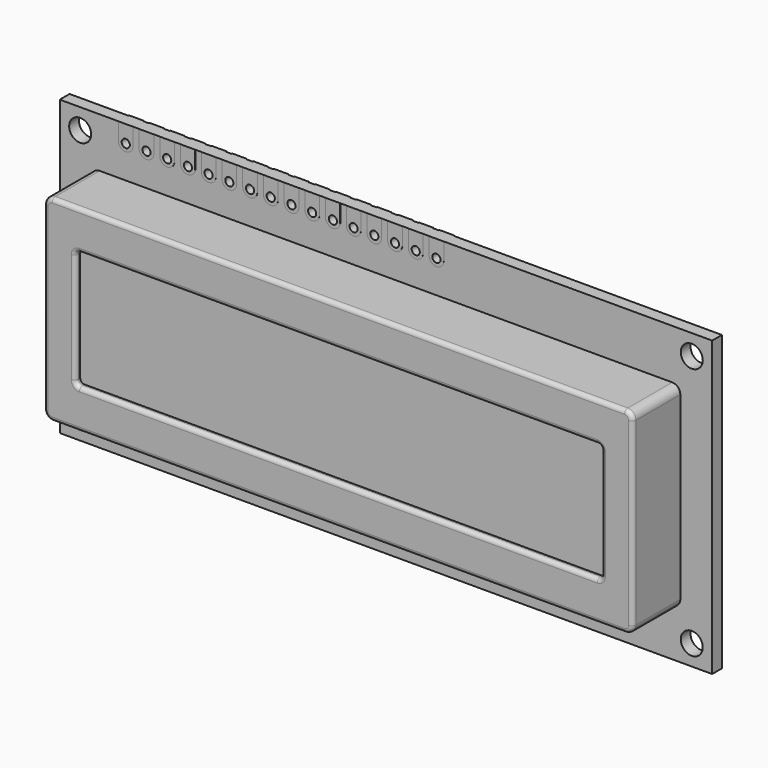
from build123d import *

# Parameters (mm, degrees)
F0_R     = 1.35
F0_R_2   = 0.5
F1_DEPTH = 1.5
F3_DEPTH = 7.3
F5_DEPTH = 0.75
F6_R     = 0.5
F7_DEPTH = 1.51
F8_DEPTH = 0.1


with BuildPart() as f1:
    # F0 (on Front) → F1 (new body)
    with BuildSketch(Plane.XZ):
        with BuildLine():
            Line((7.2, 0), (0, 0))
            Line((0, 0), (0, -36))
            Line((0, -36), (80, -36))
            Line((80, -36), (80, 0))
            Line((80, 0), (47.1, 0))
            Line((47.1, 0), (47.1, -2.1))
            ThreePointArc((47.1, -2.1), (46.2, -3), (45.3, -2.1))
            Line((45.3, -2.1), (45.3, 0))
            Line((45.3, 0), (44.56, 0))
            Line((44.56, 0), (44.56, -2.1))
            ThreePointArc((44.56, -2.1), (43.66, -3), (42.76, -2.1))
            Line((42.76, -2.1), (42.76, 0))
            Line((42.76, 0), (42.02, 0))
            Line((42.02, 0), (42.02, -2.1))
            ThreePointArc((42.02, -2.1), (41.12, -3), (40.22, -2.1))
            Line((40.22, -2.1), (40.22, 0))
            Line((40.22, 0), (39.48, 0))
            Line((39.48, 0), (39.48, -2.1))
            ThreePointArc((39.48, -2.1), (38.58, -3), (37.68, -2.1))
            Line((37.68, -2.1), (37.68, 0))
            Line((37.68, 0), (36.94, 0))
            Line((36.94, 0), (36.94, -2.1))
            ThreePointArc((36.94, -2.1), (36.04, -3), (35.14, -2.1))
            Line((35.14, -2.1), (35.14, 0))
            Line((35.14, 0), (34.4, 0))
            Line((34.4, 0), (34.4, -2.1))
            ThreePointArc((34.4, -2.1), (33.5, -3), (32.6, -2.1))
            Line((32.6, -2.1), (32.6, 0))
            Line((32.6, 0), (31.86, 0))
            Line((31.86, 0), (31.86, -2.1))
            ThreePointArc((31.86, -2.1), (30.96, -3), (30.06, -2.1))
            Line((30.06, -2.1), (30.06, 0))
            Line((30.06, 0), (29.32, 0))
            Line((29.32, 0), (29.32, -2.1))
            ThreePointArc((29.32, -2.1), (28.42, -3), (27.52, -2.1))
            Line((27.52, -2.1), (27.52, 0))
            Line((27.52, 0), (26.78, 0))
            Line((26.78, 0), (26.78, -2.1))
            ThreePointArc((26.78, -2.1), (25.88, -3), (24.98, -2.1))
            Line((24.98, -2.1), (24.98, 0))
            Line((24.98, 0), (24.24, 0))
            Line((24.24, 0), (24.24, -2.1))
            ThreePointArc((24.24, -2.1), (23.34, -3), (22.44, -2.1))
            Line((22.44, -2.1), (22.44, 0))
            Line((22.44, 0), (21.7, 0))
            Line((21.7, 0), (21.7, -2.1))
            ThreePointArc((21.7, -2.1), (20.8, -3), (19.9, -2.1))
            Line((19.9, -2.1), (19.9, 0))
            Line((19.9, 0), (19.16, 0))
            Line((19.16, 0), (19.16, -2.1))
            ThreePointArc((19.16, -2.1), (18.26, -3), (17.36, -2.1))
            Line((17.36, -2.1), (17.36, 0))
            Line((17.36, 0), (16.62, 0))
            Line((16.62, 0), (16.62, -2.1))
            ThreePointArc((16.62, -2.1), (15.72, -3), (14.82, -2.1))
            Line((14.82, -2.1), (14.82, 0))
            Line((14.82, 0), (14.08, 0))
            Line((14.08, 0), (14.08, -2.1))
            ThreePointArc((14.08, -2.1), (13.18, -3), (12.28, -2.1))
            Line((12.28, -2.1), (12.28, 0))
            Line((12.28, 0), (11.54, 0))
            Line((11.54, 0), (11.54, -2.1))
            ThreePointArc((11.54, -2.1), (10.64, -3), (9.74, -2.1))
            Line((9.74, -2.1), (9.74, 0))
            Line((9.74, 0), (9, 0))
            Line((9, 0), (9, -2.1))
            ThreePointArc((9, -2.1), (8.1, -3), (7.2, -2.1))
            Line((7.2, -2.1), (7.2, 0))
        make_face()
        with Locations((2.5, -33.5)):
            Circle(F0_R, mode=Mode.SUBTRACT)
        with Locations((77.5, -33.5)):
            Circle(F0_R, mode=Mode.SUBTRACT)
        with Locations((2.5, -2.5)):
            Circle(F0_R, mode=Mode.SUBTRACT)
        with Locations((77.5, -2.5)):
            Circle(F0_R, mode=Mode.SUBTRACT)
        with BuildLine():
            Line((9, 0), (7.2, 0))
            Line((7.2, 0), (7.2, -2.1))
            ThreePointArc((7.2, -2.1), (8.1, -3), (9, -2.1))
            Line((9, -2.1), (9, 0))
        make_face()
        with Locations((8.1, -2.1)):
            Circle(F0_R_2, mode=Mode.SUBTRACT)
        with BuildLine():
            Line((11.54, 0), (9.74, 0))
            Line((9.74, 0), (9.74, -2.1))
            ThreePointArc((9.74, -2.1), (10.64, -3), (11.54, -2.1))
            Line((11.54, -2.1), (11.54, 0))
        make_face()
        with Locations((10.64, -2.1)):
            Circle(F0_R_2, mode=Mode.SUBTRACT)
        with BuildLine():
            Line((47.1, -2.1), (47.1, 0))
            Line((47.1, 0), (45.3, 0))
            Line((45.3, 0), (45.3, -2.1))
            ThreePointArc((45.3, -2.1), (46.2, -3), (47.1, -2.1))
        make_face()
        with Locations((46.2, -2.1)):
            Circle(F0_R_2, mode=Mode.SUBTRACT)
        with BuildLine():
            Line((14.08, 0), (12.28, 0))
            Line((12.28, 0), (12.28, -2.1))
            ThreePointArc((12.28, -2.1), (13.18, -3), (14.08, -2.1))
            Line((14.08, -2.1), (14.08, 0))
        make_face()
        with Locations((13.18, -2.1)):
            Circle(F0_R_2, mode=Mode.SUBTRACT)
        with BuildLine():
            Line((44.56, -2.1), (44.56, 0))
            Line((44.56, 0), (42.76, 0))
            Line((42.76, 0), (42.76, -2.1))
            ThreePointArc((42.76, -2.1), (43.66, -3), (44.56, -2.1))
        make_face()
        with Locations((43.66, -2.1)):
            Circle(F0_R_2, mode=Mode.SUBTRACT)
        with BuildLine():
            Line((16.62, 0), (14.82, 0))
            Line((14.82, 0), (14.82, -2.1))
            ThreePointArc((14.82, -2.1), (15.72, -3), (16.62, -2.1))
            Line((16.62, -2.1), (16.62, 0))
        make_face()
        with Locations((15.72, -2.1)):
            Circle(F0_R_2, mode=Mode.SUBTRACT)
        with BuildLine():
            Line((42.02, -2.1), (42.02, 0))
            Line((42.02, 0), (40.22, 0))
            Line((40.22, 0), (40.22, -2.1))
            ThreePointArc((40.22, -2.1), (41.12, -3), (42.02, -2.1))
        make_face()
        with Locations((41.12, -2.1)):
            Circle(F0_R_2, mode=Mode.SUBTRACT)
        with BuildLine():
            Line((19.16, 0), (17.36, 0))
            Line((17.36, 0), (17.36, -2.1))
            ThreePointArc((17.36, -2.1), (18.26, -3), (19.16, -2.1))
            Line((19.16, -2.1), (19.16, 0))
        make_face()
        with Locations((18.26, -2.1)):
            Circle(F0_R_2, mode=Mode.SUBTRACT)
        with BuildLine():
            Line((39.48, -2.1), (39.48, 0))
            Line((39.48, 0), (37.68, 0))
            Line((37.68, 0), (37.68, -2.1))
            ThreePointArc((37.68, -2.1), (38.58, -3), (39.48, -2.1))
        make_face()
        with Locations((38.58, -2.1)):
            Circle(F0_R_2, mode=Mode.SUBTRACT)
        with BuildLine():
            Line((21.7, 0), (19.9, 0))
            Line((19.9, 0), (19.9, -2.1))
            ThreePointArc((19.9, -2.1), (20.8, -3), (21.7, -2.1))
            Line((21.7, -2.1), (21.7, 0))
        make_face()
        with Locations((20.8, -2.1)):
            Circle(F0_R_2, mode=Mode.SUBTRACT)
        with BuildLine():
            Line((36.94, -2.1), (36.94, 0))
            Line((36.94, 0), (35.14, 0))
            Line((35.14, 0), (35.14, -2.1))
            ThreePointArc((35.14, -2.1), (36.04, -3), (36.94, -2.1))
        make_face()
        with Locations((36.04, -2.1)):
            Circle(F0_R_2, mode=Mode.SUBTRACT)
        with BuildLine():
            Line((24.24, 0), (22.44, 0))
            Line((22.44, 0), (22.44, -2.1))
            ThreePointArc((22.44, -2.1), (23.34, -3), (24.24, -2.1))
            Line((24.24, -2.1), (24.24, 0))
        make_face()
        with Locations((23.34, -2.1)):
            Circle(F0_R_2, mode=Mode.SUBTRACT)
        with BuildLine():
            Line((34.4, -2.1), (34.4, 0))
            Line((34.4, 0), (32.6, 0))
            Line((32.6, 0), (32.6, -2.1))
            ThreePointArc((32.6, -2.1), (33.5, -3), (34.4, -2.1))
        make_face()
        with Locations((33.5, -2.1)):
            Circle(F0_R_2, mode=Mode.SUBTRACT)
        with BuildLine():
            Line((26.78, 0), (24.98, 0))
            Line((24.98, 0), (24.98, -2.1))
            ThreePointArc((24.98, -2.1), (25.88, -3), (26.78, -2.1))
            Line((26.78, -2.1), (26.78, 0))
        make_face()
        with Locations((25.88, -2.1)):
            Circle(F0_R_2, mode=Mode.SUBTRACT)
        with BuildLine():
            Line((31.86, -2.1), (31.86, 0))
            Line((31.86, 0), (30.06, 0))
            Line((30.06, 0), (30.06, -2.1))
            ThreePointArc((30.06, -2.1), (30.96, -3), (31.86, -2.1))
        make_face()
        with Locations((30.96, -2.1)):
            Circle(F0_R_2, mode=Mode.SUBTRACT)
        with BuildLine():
            Line((29.32, 0), (27.52, 0))
            Line((27.52, 0), (27.52, -2.1))
            ThreePointArc((27.52, -2.1), (28.42, -3), (29.32, -2.1))
            Line((29.32, -2.1), (29.32, 0))
        make_face()
        with Locations((28.42, -2.1)):
            Circle(F0_R_2, mode=Mode.SUBTRACT)
    extrude(amount=F1_DEPTH)

    # F2 (on face) → F3 (join)
    with BuildSketch(Plane.XZ.offset(1.5)):
        with BuildLine():
            Line((75.1, -6.1), (4.9, -6.1))
            ThreePointArc((4.9, -6.1), (4.1928932188, -6.3928932188), (3.9, -7.1))
            Line((3.9, -7.1), (3.9, -29.2))
            ThreePointArc((3.9, -29.2), (4.1928932188, -29.9071067812), (4.9, -30.2))
            Line((4.9, -30.2), (75.1, -30.2))
            ThreePointArc((75.1, -30.2), (75.8071067812, -29.9071067812), (76.1, -29.2))
            Line((76.1, -29.2), (76.1, -7.1))
            ThreePointArc((76.1, -7.1), (75.8071067812, -6.3928932188), (75.1, -6.1))
        make_face()
    extrude(amount=F3_DEPTH)

    # F4 (on face) → F5 (cut)
    with BuildSketch(Plane.XZ.offset(8.8)):
        with BuildLine():
            Line((71.75, -10.9), (8.25, -10.9))
            ThreePointArc((8.25, -10.9), (7.8964466094, -11.0464466094), (7.75, -11.4))
            Line((7.75, -11.4), (7.75, -24.9))
            ThreePointArc((7.75, -24.9), (7.8964466094, -25.2535533906), (8.25, -25.4))
            Line((8.25, -25.4), (71.75, -25.4))
            ThreePointArc((71.75, -25.4), (72.1035533906, -25.2535533906), (72.25, -24.9))
            Line((72.25, -24.9), (72.25, -11.4))
            ThreePointArc((72.25, -11.4), (72.1035533906, -11.0464466094), (71.75, -10.9))
        make_face()
    extrude(amount=-F5_DEPTH, mode=Mode.SUBTRACT)

    # F6
    f6_edges = [f1.edges().sort_by_distance(p)[0] for p in [
        (76.1, -8.8, -18.15),
        (75.807107, -8.8, -29.907107),
        (75.807107, -8.8, -6.392893),
        (40, -8.8, -30.2),
        (40, -8.8, -6.1),
        (4.192893, -8.8, -29.907107),
        (4.192893, -8.8, -6.392893),
        (3.9, -8.8, -18.15),
        (40, -8.8, -10.9),
        (7.896447, -8.8, -11.046447),
        (7.75, -8.8, -18.15),
        (7.896447, -8.8, -25.253553),
        (40, -8.8, -25.4),
        (72.103553, -8.8, -25.253553),
        (72.25, -8.8, -18.15),
        (72.103553, -8.8, -11.046447),
    ]]
    fillet(f6_edges, radius=F6_R)

    # F0 (on Front) → F7 (join)
    with BuildSketch(Plane.XZ):
        with BuildLine():
            Line((9, 0), (7.2, 0))
            Line((7.2, 0), (7.2, -2.1))
            ThreePointArc((7.2, -2.1), (8.1, -3), (9, -2.1))
            Line((9, -2.1), (9, 0))
        make_face()
        with Locations((8.1, -2.1)):
            Circle(F0_R_2, mode=Mode.SUBTRACT)
        with BuildLine():
            Line((11.54, 0), (9.74, 0))
            Line((9.74, 0), (9.74, -2.1))
            ThreePointArc((9.74, -2.1), (10.64, -3), (11.54, -2.1))
            Line((11.54, -2.1), (11.54, 0))
        make_face()
        with Locations((10.64, -2.1)):
            Circle(F0_R_2, mode=Mode.SUBTRACT)
        with BuildLine():
            Line((14.08, 0), (12.28, 0))
            Line((12.28, 0), (12.28, -2.1))
            ThreePointArc((12.28, -2.1), (13.18, -3), (14.08, -2.1))
            Line((14.08, -2.1), (14.08, 0))
        make_face()
        with Locations((13.18, -2.1)):
            Circle(F0_R_2, mode=Mode.SUBTRACT)
        with BuildLine():
            Line((16.62, 0), (14.82, 0))
            Line((14.82, 0), (14.82, -2.1))
            ThreePointArc((14.82, -2.1), (15.72, -3), (16.62, -2.1))
            Line((16.62, -2.1), (16.62, 0))
        make_face()
        with Locations((15.72, -2.1)):
            Circle(F0_R_2, mode=Mode.SUBTRACT)
        with BuildLine():
            Line((19.16, 0), (17.36, 0))
            Line((17.36, 0), (17.36, -2.1))
            ThreePointArc((17.36, -2.1), (18.26, -3), (19.16, -2.1))
            Line((19.16, -2.1), (19.16, 0))
        make_face()
        with Locations((18.26, -2.1)):
            Circle(F0_R_2, mode=Mode.SUBTRACT)
        with BuildLine():
            Line((21.7, 0), (19.9, 0))
            Line((19.9, 0), (19.9, -2.1))
            ThreePointArc((19.9, -2.1), (20.8, -3), (21.7, -2.1))
            Line((21.7, -2.1), (21.7, 0))
        make_face()
        with Locations((20.8, -2.1)):
            Circle(F0_R_2, mode=Mode.SUBTRACT)
        with BuildLine():
            Line((24.24, 0), (22.44, 0))
            Line((22.44, 0), (22.44, -2.1))
            ThreePointArc((22.44, -2.1), (23.34, -3), (24.24, -2.1))
            Line((24.24, -2.1), (24.24, 0))
        make_face()
        with Locations((23.34, -2.1)):
            Circle(F0_R_2, mode=Mode.SUBTRACT)
        with BuildLine():
            Line((26.78, 0), (24.98, 0))
            Line((24.98, 0), (24.98, -2.1))
            ThreePointArc((24.98, -2.1), (25.88, -3), (26.78, -2.1))
            Line((26.78, -2.1), (26.78, 0))
        make_face()
        with Locations((25.88, -2.1)):
            Circle(F0_R_2, mode=Mode.SUBTRACT)
        with BuildLine():
            Line((29.32, 0), (27.52, 0))
            Line((27.52, 0), (27.52, -2.1))
            ThreePointArc((27.52, -2.1), (28.42, -3), (29.32, -2.1))
            Line((29.32, -2.1), (29.32, 0))
        make_face()
        with Locations((28.42, -2.1)):
            Circle(F0_R_2, mode=Mode.SUBTRACT)
        with BuildLine():
            Line((31.86, -2.1), (31.86, 0))
            Line((31.86, 0), (30.06, 0))
            Line((30.06, 0), (30.06, -2.1))
            ThreePointArc((30.06, -2.1), (30.96, -3), (31.86, -2.1))
        make_face()
        with Locations((30.96, -2.1)):
            Circle(F0_R_2, mode=Mode.SUBTRACT)
        with BuildLine():
            Line((34.4, -2.1), (34.4, 0))
            Line((34.4, 0), (32.6, 0))
            Line((32.6, 0), (32.6, -2.1))
            ThreePointArc((32.6, -2.1), (33.5, -3), (34.4, -2.1))
        make_face()
        with Locations((33.5, -2.1)):
            Circle(F0_R_2, mode=Mode.SUBTRACT)
        with BuildLine():
            Line((36.94, -2.1), (36.94, 0))
            Line((36.94, 0), (35.14, 0))
            Line((35.14, 0), (35.14, -2.1))
            ThreePointArc((35.14, -2.1), (36.04, -3), (36.94, -2.1))
        make_face()
        with Locations((36.04, -2.1)):
            Circle(F0_R_2, mode=Mode.SUBTRACT)
        with BuildLine():
            Line((39.48, -2.1), (39.48, 0))
            Line((39.48, 0), (37.68, 0))
            Line((37.68, 0), (37.68, -2.1))
            ThreePointArc((37.68, -2.1), (38.58, -3), (39.48, -2.1))
        make_face()
        with Locations((38.58, -2.1)):
            Circle(F0_R_2, mode=Mode.SUBTRACT)
        with BuildLine():
            Line((42.02, -2.1), (42.02, 0))
            Line((42.02, 0), (40.22, 0))
            Line((40.22, 0), (40.22, -2.1))
            ThreePointArc((40.22, -2.1), (41.12, -3), (42.02, -2.1))
        make_face()
        with Locations((41.12, -2.1)):
            Circle(F0_R_2, mode=Mode.SUBTRACT)
        with BuildLine():
            Line((44.56, -2.1), (44.56, 0))
            Line((44.56, 0), (42.76, 0))
            Line((42.76, 0), (42.76, -2.1))
            ThreePointArc((42.76, -2.1), (43.66, -3), (44.56, -2.1))
        make_face()
        with Locations((43.66, -2.1)):
            Circle(F0_R_2, mode=Mode.SUBTRACT)
        with BuildLine():
            Line((47.1, -2.1), (47.1, 0))
            Line((47.1, 0), (45.3, 0))
            Line((45.3, 0), (45.3, -2.1))
            ThreePointArc((45.3, -2.1), (46.2, -3), (47.1, -2.1))
        make_face()
        with Locations((46.2, -2.1)):
            Circle(F0_R_2, mode=Mode.SUBTRACT)
    extrude(amount=F7_DEPTH)

    # F0 (on Front) → F8 (join)
    with BuildSketch(Plane.XZ):
        with BuildLine():
            Line((9, 0), (7.2, 0))
            Line((7.2, 0), (7.2, -2.1))
            ThreePointArc((7.2, -2.1), (8.1, -3), (9, -2.1))
            Line((9, -2.1), (9, 0))
        make_face()
        with Locations((8.1, -2.1)):
            Circle(F0_R_2, mode=Mode.SUBTRACT)
        with BuildLine():
            Line((11.54, 0), (9.74, 0))
            Line((9.74, 0), (9.74, -2.1))
            ThreePointArc((9.74, -2.1), (10.64, -3), (11.54, -2.1))
            Line((11.54, -2.1), (11.54, 0))
        make_face()
        with Locations((10.64, -2.1)):
            Circle(F0_R_2, mode=Mode.SUBTRACT)
        with BuildLine():
            Line((14.08, 0), (12.28, 0))
            Line((12.28, 0), (12.28, -2.1))
            ThreePointArc((12.28, -2.1), (13.18, -3), (14.08, -2.1))
            Line((14.08, -2.1), (14.08, 0))
        make_face()
        with Locations((13.18, -2.1)):
            Circle(F0_R_2, mode=Mode.SUBTRACT)
        with BuildLine():
            Line((16.62, 0), (14.82, 0))
            Line((14.82, 0), (14.82, -2.1))
            ThreePointArc((14.82, -2.1), (15.72, -3), (16.62, -2.1))
            Line((16.62, -2.1), (16.62, 0))
        make_face()
        with Locations((15.72, -2.1)):
            Circle(F0_R_2, mode=Mode.SUBTRACT)
        with BuildLine():
            Line((19.16, 0), (17.36, 0))
            Line((17.36, 0), (17.36, -2.1))
            ThreePointArc((17.36, -2.1), (18.26, -3), (19.16, -2.1))
            Line((19.16, -2.1), (19.16, 0))
        make_face()
        with Locations((18.26, -2.1)):
            Circle(F0_R_2, mode=Mode.SUBTRACT)
        with BuildLine():
            Line((21.7, 0), (19.9, 0))
            Line((19.9, 0), (19.9, -2.1))
            ThreePointArc((19.9, -2.1), (20.8, -3), (21.7, -2.1))
            Line((21.7, -2.1), (21.7, 0))
        make_face()
        with Locations((20.8, -2.1)):
            Circle(F0_R_2, mode=Mode.SUBTRACT)
        with BuildLine():
            Line((24.24, 0), (22.44, 0))
            Line((22.44, 0), (22.44, -2.1))
            ThreePointArc((22.44, -2.1), (23.34, -3), (24.24, -2.1))
            Line((24.24, -2.1), (24.24, 0))
        make_face()
        with Locations((23.34, -2.1)):
            Circle(F0_R_2, mode=Mode.SUBTRACT)
        with BuildLine():
            Line((26.78, 0), (24.98, 0))
            Line((24.98, 0), (24.98, -2.1))
            ThreePointArc((24.98, -2.1), (25.88, -3), (26.78, -2.1))
            Line((26.78, -2.1), (26.78, 0))
        make_face()
        with Locations((25.88, -2.1)):
            Circle(F0_R_2, mode=Mode.SUBTRACT)
        with BuildLine():
            Line((29.32, 0), (27.52, 0))
            Line((27.52, 0), (27.52, -2.1))
            ThreePointArc((27.52, -2.1), (28.42, -3), (29.32, -2.1))
            Line((29.32, -2.1), (29.32, 0))
        make_face()
        with Locations((28.42, -2.1)):
            Circle(F0_R_2, mode=Mode.SUBTRACT)
        with BuildLine():
            Line((31.86, -2.1), (31.86, 0))
            Line((31.86, 0), (30.06, 0))
            Line((30.06, 0), (30.06, -2.1))
            ThreePointArc((30.06, -2.1), (30.96, -3), (31.86, -2.1))
        make_face()
        with Locations((30.96, -2.1)):
            Circle(F0_R_2, mode=Mode.SUBTRACT)
        with BuildLine():
            Line((34.4, -2.1), (34.4, 0))
            Line((34.4, 0), (32.6, 0))
            Line((32.6, 0), (32.6, -2.1))
            ThreePointArc((32.6, -2.1), (33.5, -3), (34.4, -2.1))
        make_face()
        with Locations((33.5, -2.1)):
            Circle(F0_R_2, mode=Mode.SUBTRACT)
        with BuildLine():
            Line((36.94, -2.1), (36.94, 0))
            Line((36.94, 0), (35.14, 0))
            Line((35.14, 0), (35.14, -2.1))
            ThreePointArc((35.14, -2.1), (36.04, -3), (36.94, -2.1))
        make_face()
        with Locations((36.04, -2.1)):
            Circle(F0_R_2, mode=Mode.SUBTRACT)
        with BuildLine():
            Line((39.48, -2.1), (39.48, 0))
            Line((39.48, 0), (37.68, 0))
            Line((37.68, 0), (37.68, -2.1))
            ThreePointArc((37.68, -2.1), (38.58, -3), (39.48, -2.1))
        make_face()
        with Locations((38.58, -2.1)):
            Circle(F0_R_2, mode=Mode.SUBTRACT)
        with BuildLine():
            Line((42.02, -2.1), (42.02, 0))
            Line((42.02, 0), (40.22, 0))
            Line((40.22, 0), (40.22, -2.1))
            ThreePointArc((40.22, -2.1), (41.12, -3), (42.02, -2.1))
        make_face()
        with Locations((41.12, -2.1)):
            Circle(F0_R_2, mode=Mode.SUBTRACT)
        with BuildLine():
            Line((44.56, -2.1), (44.56, 0))
            Line((44.56, 0), (42.76, 0))
            Line((42.76, 0), (42.76, -2.1))
            ThreePointArc((42.76, -2.1), (43.66, -3), (44.56, -2.1))
        make_face()
        with Locations((43.66, -2.1)):
            Circle(F0_R_2, mode=Mode.SUBTRACT)
        with BuildLine():
            Line((47.1, -2.1), (47.1, 0))
            Line((47.1, 0), (45.3, 0))
            Line((45.3, 0), (45.3, -2.1))
            ThreePointArc((45.3, -2.1), (46.2, -3), (47.1, -2.1))
        make_face()
        with Locations((46.2, -2.1)):
            Circle(F0_R_2, mode=Mode.SUBTRACT)
    extrude(amount=-F8_DEPTH)


solid = f1.part
